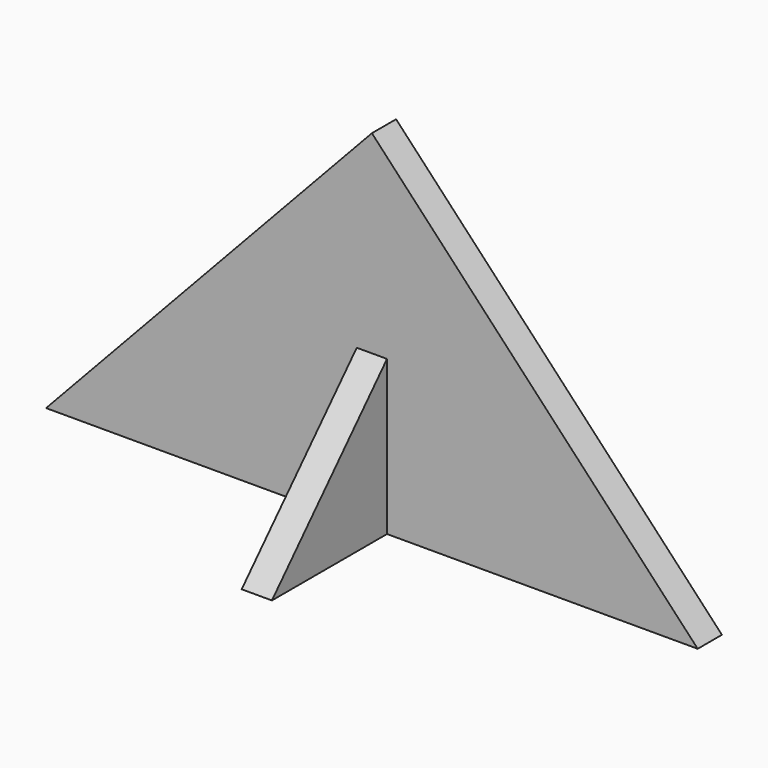
from build123d import *

# Parameters (mm, degrees)
F1_DEPTH = 1.27
F3_DEPTH = 1.27


with BuildPart() as f1:
    # F0 (on Front) → F1 (new body, symmetric)
    with BuildSketch(Plane.XZ):
        Polygon((0, 29.201968), (-27.3431, 0), (27.3431, 0), align=None)
    extrude(amount=F1_DEPTH, both=True)


with BuildPart() as f3:
    # F2 (on Right) → F3 (new body, symmetric)
    with BuildSketch(Plane.YZ):
        Polygon((0, 14.298418), (-13.34431, 0), (13.32569, 0), align=None)
    extrude(amount=F3_DEPTH, both=True)


solid = Compound([f1.part, f3.part])
